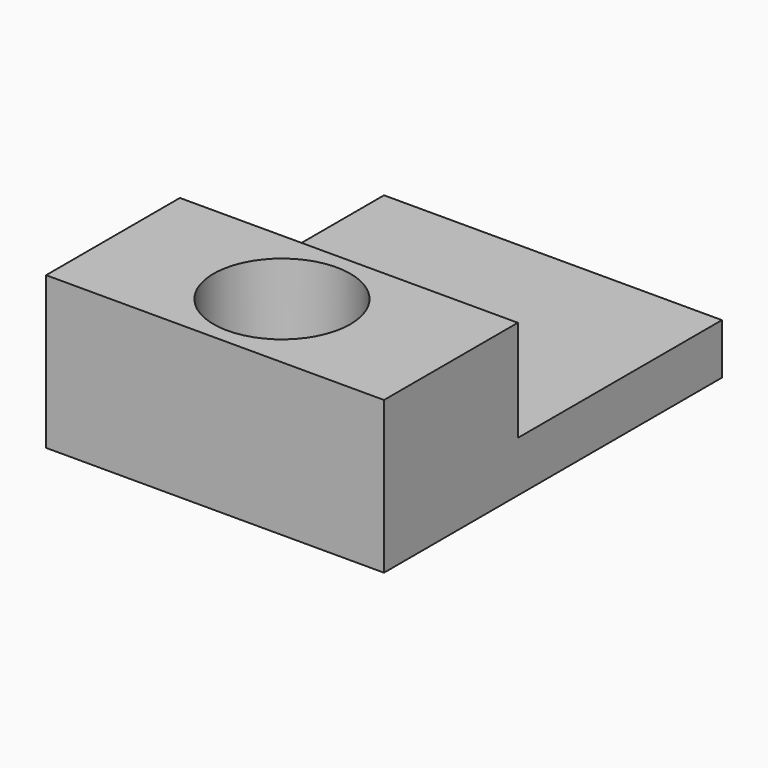
from build123d import *

# Parameters (mm, degrees)
F0_W     = 20
F0_H     = 25
F1_DEPTH = 3
F3_DEPTH = 9
F4_R     = 4.05
F5_DEPTH = 9


with BuildPart() as f1:
    # F0 (on Top) → F1 (new body)
    with BuildSketch(Plane.XY):
        Rectangle(F0_W, F0_H)
    extrude(amount=F1_DEPTH)

    # F2 (on Top) → F3 (join)
    with BuildSketch(Plane.XY):
        Polygon((10, -2.6), (-10, -2.6), (-10, -6.8), (-10, -12.5), (10, -12.5), (10, -7.5), align=None)
    extrude(amount=F3_DEPTH)

    # F4 (on Top) → F5 (cut, through all)
    with BuildSketch(Plane.XY):
        with Locations((0, -7.55)):
            Circle(F4_R)
    extrude(amount=F5_DEPTH, mode=Mode.SUBTRACT)


solid = f1.part
